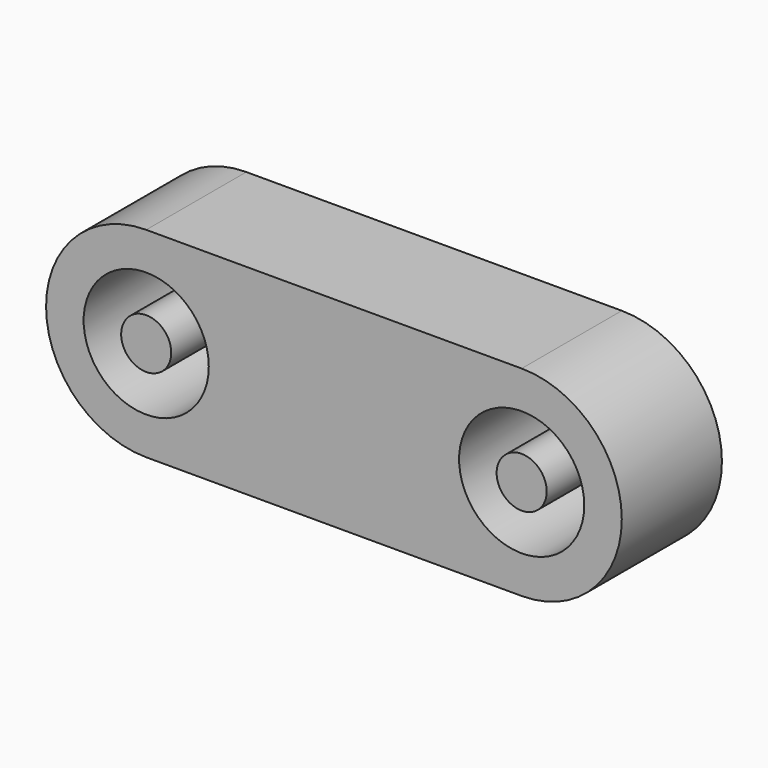
from build123d import *

# Parameters (mm, degrees)
F0_R     = 2.5
F0_R_2   = 1
F1_DEPTH = 5


with BuildPart() as f1:
    # F0 (on Front) → F1 (new body)
    with BuildSketch(Plane.XZ):
        with BuildLine():
            Line((0, 4), (-15, 4))
            ThreePointArc((-15, 4), (-19, 0), (-15, -4))
            Line((-15, -4), (0, -4))
            ThreePointArc((0, -4), (4, 0), (0, 4))
        make_face()
        with Locations((-15, 0)):
            Circle(F0_R, mode=Mode.SUBTRACT)
        Circle(F0_R, mode=Mode.SUBTRACT)
        with Locations((-15, 0)):
            Circle(F0_R_2)
        Circle(F0_R_2)
    extrude(amount=F1_DEPTH)


solid = f1.part
